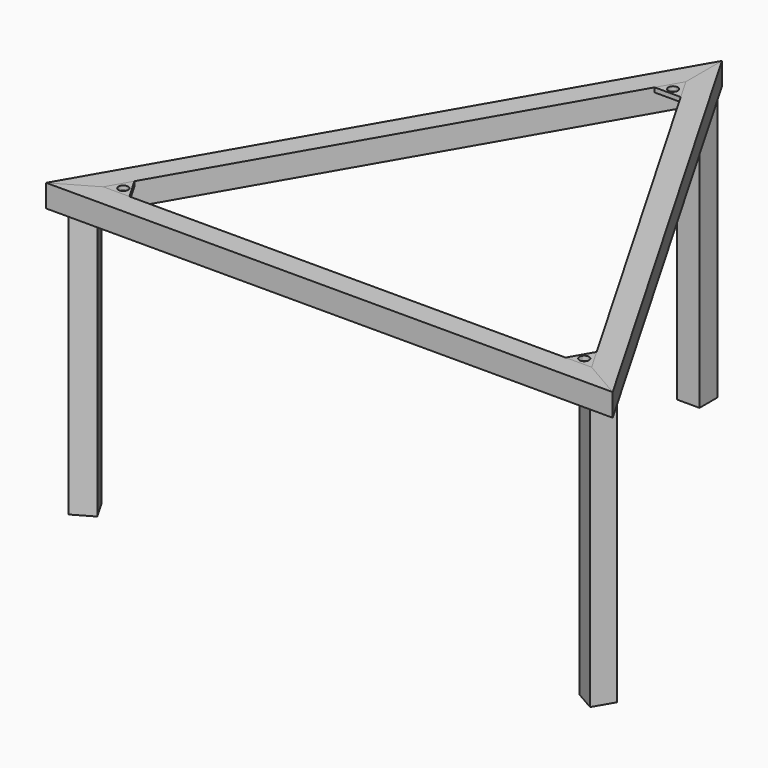
from build123d import *

# Parameters (mm, degrees)
F0_W     = 25
F0_H     = 50
F1_DEPTH = 50
F2_DEPTH = 50
F3_DEPTH = 50
F4_START = 40
F4_DEPTH = 10
F5_START = 40
F5_DEPTH = 10
F6_START = 40
F6_DEPTH = 10
F7_DEPTH = 580
F8_DEPTH = 580
F9_DEPTH = 580


with BuildPart() as f1:
    # F0 (on Top) → F1 (new body)
    with BuildSketch(Plane.XY):
        Polygon((-589.413438675, -340.298007483), (-601.913438675, -318.6473723884), (-626.913438675, -361.9486425776), align=None)
        Polygon((-28.8675134595, 573.8972745734), (0, 623.8972745734), (0, 630.5960149659), (-25, 630.5960149659), (-25, 680.5960149659), (-601.913438675, -318.6473723884), (-558.6121684857, -293.6473723884), (-546.1121684857, -315.298007483), (-540.3108891325, -311.9486372867), (-511.443375673, -261.9486372867), align=None)
        Polygon((-25, 680.5960149659), (0, 680.5960149659), (0, 723.8972851552), align=None)
        Polygon((-28.8675134595, 573.8972745734), (0, 623.8972745734), (0, 630.5960149659), (-25, 630.5960149659), (-25, 680.5960149659), (-601.913438675, -318.6473723884), (-558.6121684857, -293.6473723884), (-546.1121684857, -315.298007483), (-540.3108891325, -311.9486372867), (-511.443375673, -261.9486372867), align=None)
        with Locations((-12.5, 655.5960149659)):
            Rectangle(F0_W, F0_H)
        Polygon((-589.413438675, -340.298007483), (-546.1121684857, -315.298007483), (-558.6121684857, -293.6473723884), (-601.913438675, -318.6473723884), align=None)
    extrude(amount=F1_DEPTH)


with BuildPart() as f2:
    # F0 (on Top) → F2 (new body)
    with BuildSketch(Plane.XY):
        Polygon((0, 723.8972851552), (0, 680.5960149659), (25, 680.5960149659), align=None)
        Polygon((0, 630.5960149659), (0, 623.8972745734), (28.8675134595, 573.8972745734), (511.443375673, -261.9486372867), (540.3108891325, -311.9486372867), (546.1121684857, -315.298007483), (558.6121684857, -293.6473723884), (601.913438675, -318.6473723884), (25, 680.5960149659), (25, 630.5960149659), align=None)
        Polygon((626.913438675, -361.9486425776), (601.913438675, -318.6473723884), (589.413438675, -340.298007483), align=None)
        Polygon((0, 630.5960149659), (0, 623.8972745734), (28.8675134595, 573.8972745734), (511.443375673, -261.9486372867), (540.3108891325, -311.9486372867), (546.1121684857, -315.298007483), (558.6121684857, -293.6473723884), (601.913438675, -318.6473723884), (25, 680.5960149659), (25, 630.5960149659), align=None)
        Polygon((558.6121684857, -293.6473723884), (546.1121684857, -315.298007483), (589.413438675, -340.298007483), (601.913438675, -318.6473723884), align=None)
        Polygon((626.913438675, -361.9486425776), (601.913438675, -318.6473723884), (589.413438675, -340.298007483), align=None)
        with Locations((12.5, 655.5960149659)):
            Rectangle(F0_W, F0_H)
        Polygon((0, 630.5960149659), (0, 623.8972745734), (28.8675134595, 573.8972745734), (511.443375673, -261.9486372867), (540.3108891325, -311.9486372867), (546.1121684857, -315.298007483), (558.6121684857, -293.6473723884), (601.913438675, -318.6473723884), (25, 680.5960149659), (25, 630.5960149659), align=None)
        Polygon((558.6121684857, -293.6473723884), (546.1121684857, -315.298007483), (589.413438675, -340.298007483), (601.913438675, -318.6473723884), align=None)
    extrude(amount=F2_DEPTH)


with BuildPart() as f3:
    # F0 (on Top) → F3 (new body)
    with BuildSketch(Plane.XY):
        Polygon((626.913438675, -361.9486425776), (589.413438675, -340.298007483), (576.913438675, -361.9486425776), align=None)
        Polygon((546.1121684857, -315.298007483), (540.3108891325, -311.9486372867), (482.5758622135, -311.9486372867), (-482.5758622135, -311.9486372867), (-540.3108891325, -311.9486372867), (-546.1121684857, -315.298007483), (-533.6121684857, -336.9486425776), (-576.913438675, -361.9486425776), (576.913438675, -361.9486425776), (533.6121684857, -336.9486425776), align=None)
        Polygon((-576.913438675, -361.9486425776), (-589.413438675, -340.298007483), (-626.913438675, -361.9486425776), align=None)
        Polygon((546.1121684857, -315.298007483), (540.3108891325, -311.9486372867), (482.5758622135, -311.9486372867), (-482.5758622135, -311.9486372867), (-540.3108891325, -311.9486372867), (-546.1121684857, -315.298007483), (-533.6121684857, -336.9486425776), (-576.913438675, -361.9486425776), (576.913438675, -361.9486425776), (533.6121684857, -336.9486425776), align=None)
        Polygon((589.413438675, -340.298007483), (546.1121684857, -315.298007483), (533.6121684857, -336.9486425776), (576.913438675, -361.9486425776), align=None)
        Polygon((626.913438675, -361.9486425776), (589.413438675, -340.298007483), (576.913438675, -361.9486425776), align=None)
        Polygon((-533.6121684857, -336.9486425776), (-546.1121684857, -315.298007483), (-589.413438675, -340.298007483), (-576.913438675, -361.9486425776), align=None)
        Polygon((546.1121684857, -315.298007483), (540.3108891325, -311.9486372867), (482.5758622135, -311.9486372867), (-482.5758622135, -311.9486372867), (-540.3108891325, -311.9486372867), (-546.1121684857, -315.298007483), (-533.6121684857, -336.9486425776), (-576.913438675, -361.9486425776), (576.913438675, -361.9486425776), (533.6121684857, -336.9486425776), align=None)
        Polygon((589.413438675, -340.298007483), (546.1121684857, -315.298007483), (533.6121684857, -336.9486425776), (576.913438675, -361.9486425776), align=None)
    extrude(amount=F3_DEPTH)


with BuildPart() as f4:
    # F0 (on Top) → F4 (new body)
    with BuildSketch(Plane.XY.offset(F4_START)):
        with BuildLine():
            Line((0, 599.3972745734), (0, 623.8972745734))
            Line((0, 623.8972745734), (-28.8675134595, 573.8972745734))
            Line((-28.8675134595, 573.8972745734), (0, 573.8972745734))
            Line((0, 573.8972745734), (0, 578.3972745734))
            ThreePointArc((0, 578.3972745734), (-10.5, 588.8972745734), (0, 599.3972745734))
        make_face()
        with BuildLine():
            Line((28.8675134595, 573.8972745734), (0, 623.8972745734))
            Line((0, 623.8972745734), (0, 599.3972745734))
            ThreePointArc((0, 599.3972745734), (7.4246212025, 596.3218957759), (10.5, 588.8972745734))
            ThreePointArc((10.5, 588.8972745734), (7.4246212025, 581.472653371), (0, 578.3972745734))
            Line((0, 578.3972745734), (0, 573.8972745734))
            Line((0, 573.8972745734), (28.8675134595, 573.8972745734))
        make_face()
    extrude(amount=F4_DEPTH)


with BuildPart() as f5:
    # F0 (on Top) → F5 (new body)
    with BuildSketch(Plane.XY.offset(F5_START)):
        with BuildLine():
            Line((540.3108891325, -311.9486372867), (511.443375673, -261.9486372867))
            Line((511.443375673, -261.9486372867), (497.0096189432, -286.9486372867))
            Line((497.0096189432, -286.9486372867), (500.9067332603, -289.1986372867))
            ThreePointArc((500.9067332603, -289.1986372867), (512.7175999736, -284.3064161107), (520.5, -294.4486372867))
            ThreePointArc((520.5, -294.4486372867), (520.142221176, -297.1662372603), (519.0932667397, -299.6986372867))
            Line((519.0932667397, -299.6986372867), (540.3108891325, -311.9486372867))
        make_face()
        with BuildLine():
            Line((482.5758622135, -311.9486372867), (540.3108891325, -311.9486372867))
            Line((540.3108891325, -311.9486372867), (519.0932667397, -299.6986372867))
            ThreePointArc((519.0932667397, -299.6986372867), (504.75, -303.5419040264), (500.9067332603, -289.1986372867))
            Line((500.9067332603, -289.1986372867), (497.0096189432, -286.9486372867))
            Line((497.0096189432, -286.9486372867), (482.5758622135, -311.9486372867))
        make_face()
    extrude(amount=F5_DEPTH)


with BuildPart() as f6:
    # F0 (on Top) → F6 (new body)
    with BuildSketch(Plane.XY.offset(F6_START)):
        with BuildLine():
            Line((-497.0096189432, -286.9486372867), (-511.443375673, -261.9486372867))
            Line((-511.443375673, -261.9486372867), (-540.3108891325, -311.9486372867))
            Line((-540.3108891325, -311.9486372867), (-519.0932667397, -299.6986372867))
            ThreePointArc((-519.0932667397, -299.6986372867), (-515.25, -285.355370547), (-500.9067332603, -289.1986372867))
            Line((-500.9067332603, -289.1986372867), (-497.0096189432, -286.9486372867))
        make_face()
        with BuildLine():
            Line((-519.0932667397, -299.6986372867), (-540.3108891325, -311.9486372867))
            Line((-540.3108891325, -311.9486372867), (-482.5758622135, -311.9486372867))
            Line((-482.5758622135, -311.9486372867), (-497.0096189432, -286.9486372867))
            Line((-497.0096189432, -286.9486372867), (-500.9067332603, -289.1986372867))
            ThreePointArc((-500.9067332603, -289.1986372867), (-499.857778824, -291.7310373131), (-499.5, -294.4486372867))
            ThreePointArc((-499.5, -294.4486372867), (-507.2824000264, -304.5908584627), (-519.0932667397, -299.6986372867))
        make_face()
    extrude(amount=F6_DEPTH)


with BuildPart() as f7:
    # F0 (on Top) → F7 (new body)
    with BuildSketch(Plane.XY):
        Polygon((-589.413438675, -340.298007483), (-546.1121684857, -315.298007483), (-558.6121684857, -293.6473723884), (-601.913438675, -318.6473723884), align=None)
        Polygon((-533.6121684857, -336.9486425776), (-546.1121684857, -315.298007483), (-589.413438675, -340.298007483), (-576.913438675, -361.9486425776), align=None)
    extrude(amount=-F7_DEPTH)


with BuildPart() as f8:
    # F0 (on Top) → F8 (new body)
    with BuildSketch(Plane.XY):
        Polygon((589.413438675, -340.298007483), (546.1121684857, -315.298007483), (533.6121684857, -336.9486425776), (576.913438675, -361.9486425776), align=None)
        Polygon((558.6121684857, -293.6473723884), (546.1121684857, -315.298007483), (589.413438675, -340.298007483), (601.913438675, -318.6473723884), align=None)
    extrude(amount=-F8_DEPTH)


with BuildPart() as f9:
    # F0 (on Top) → F9 (new body)
    with BuildSketch(Plane.XY):
        with Locations((12.5, 655.5960149659)):
            Rectangle(F0_W, F0_H)
        with Locations((-12.5, 655.5960149659)):
            Rectangle(F0_W, F0_H)
    extrude(amount=-F9_DEPTH)


solid = Compound([f1.part, f2.part, f3.part, f4.part, f5.part, f6.part, f7.part, f8.part, f9.part])
